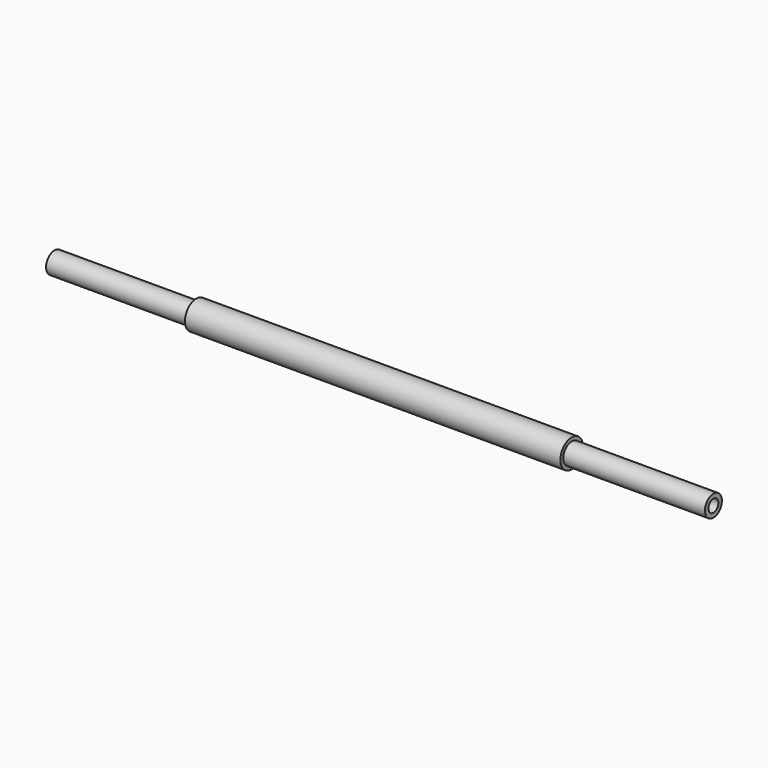
from build123d import *

# Parameters (mm, degrees)
F4_D           = 3.5
F4_DEPTH       = 11.5
F4_TIP         = 1.0515060833
F4_ON_F2_D     = 3.5
F4_ON_F2_DEPTH = 11.5
F4_ON_F2_TIP   = 1.0515060833


with BuildPart() as f1:
    # F0 (on Front) → F1 (revolve)
    with BuildSketch(Plane.XZ):
        Polygon((53, 4), (43, 4), (-43, 4), (-53, 4), (-53, 3), (-93, 3), (-93, 0), (93, 0), (93, 3), (53, 3), align=None)
    revolve(axis=Axis((0, 0, 0), (-1, 0, 0)))

    # F4
    with Locations(Plane.YZ.offset(93)):
        with Locations((0, 0)):
            Hole(F4_D / 2, depth=F4_DEPTH)
            with Locations((0, 0, -(F4_DEPTH + F4_TIP / 2))):  # 118° drill point
                Cone(0, F4_D / 2, F4_TIP, mode=Mode.SUBTRACT)

    # F4 on F2
    with Locations(Plane(origin=(-93, 0, 0), x_dir=(0, -1, 0), z_dir=(-1, 0, 0))):
        with Locations((0, 0)):
            Hole(F4_ON_F2_D / 2, depth=F4_ON_F2_DEPTH)
            with Locations((0, 0, -(F4_ON_F2_DEPTH + F4_ON_F2_TIP / 2))):  # 118° drill point
                Cone(0, F4_ON_F2_D / 2, F4_ON_F2_TIP, mode=Mode.SUBTRACT)


solid = f1.part
